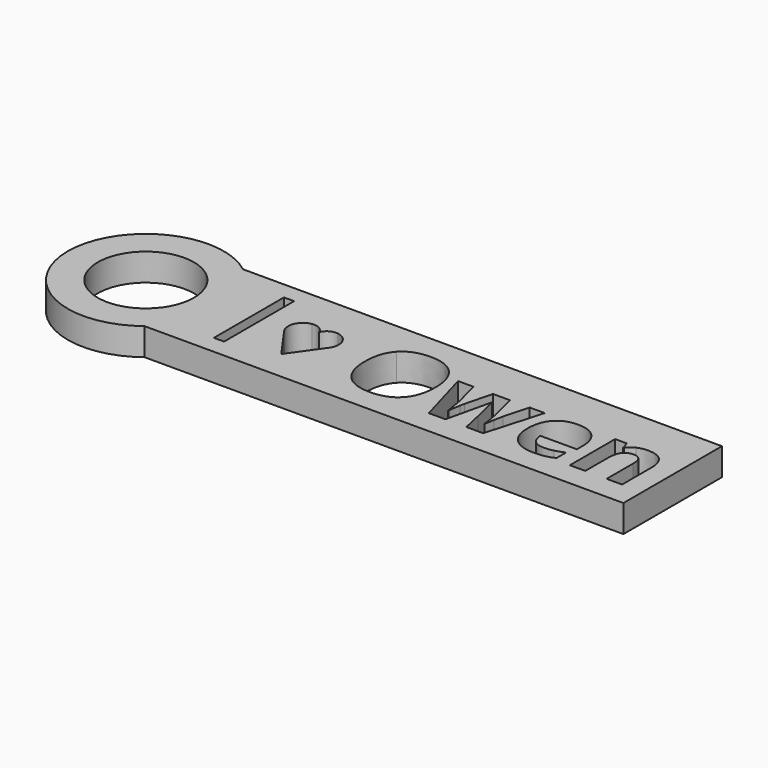
from build123d import *

# Parameters (mm, degrees)
F0_R     = 8.9291855446
F0_W     = 1.8887050901
F0_H     = 16.251400295
F1_DEPTH = 5.08


with BuildPart() as f1:
    # F0 (on Top) → F1 (new body)
    with BuildSketch(Plane.XY):
        with BuildLine():
            Line((44.45, -11.43), (44.45, 11.43))
            Line((44.45, 11.43), (-44.45, 11.43))
            ThreePointArc((-44.45, 11.43), (-67.8202265578, 0), (-44.45, -11.43))
            Line((-44.45, -11.43), (44.45, -11.43))
        make_face()
        with BuildLine():
            Line((-19.3083044142, 0), (-23.491198197, -5.8829421178))
            Line((-23.491198197, -5.8829421178), (-27.6740919799, 0))
            ThreePointArc((-27.6740919799, 0), (-27.9666728456, 2.6362555137), (-25.8814226836, 4.2755170725))
            ThreePointArc((-25.8814226836, 4.2755170725), (-24.4455751804, 4.0138821459), (-23.491198197, 2.9096740764))
            ThreePointArc((-23.491198197, 2.9096740764), (-22.5368212136, 4.0138821459), (-21.1009737104, 4.2755170725))
            ThreePointArc((-21.1009737104, 4.2755170725), (-19.0157235484, 2.6362555137), (-19.3083044142, 0))
        make_face(mode=Mode.SUBTRACT)
        with BuildLine():
            add(Edge.make_bspline(
                [(-1.1741983702, 5.1239690358), (0.5040073817, 3.2998977303), (0.5040073817, -0.1196720545)],
                knots=[0, 0, 0, 1, 1, 1], degree=2))
            add(Edge.make_bspline(
                [(0.5040073817, -0.1196720545), (0.5040073817, -3.5332267649), (-1.1877322875, -5.366320682)],
                knots=[0, 0, 0, 1, 1, 1], degree=2))
            add(Edge.make_bspline(
                [(-1.1877322875, -5.366320682), (-2.8794719568, -7.1994145992), (-6.037386006, -7.1994145992)],
                knots=[0, 0, 0, 1, 1, 1], degree=2))
            add(Edge.make_bspline(
                [(-6.037386006, -7.1994145992), (-9.1953000553, -7.1994145992), (-10.8870397245, -5.366320682)],
                knots=[0, 0, 0, 1, 1, 1], degree=2))
            add(Edge.make_bspline(
                [(-10.8870397245, -5.366320682), (-12.5787793938, -3.5332267649), (-12.5787793938, -0.1016268314)],
                knots=[0, 0, 0, 1, 1, 1], degree=2))
            add(Edge.make_bspline(
                [(-12.5787793938, -0.1016268314), (-12.5787793938, 3.3299731022), (-10.8825284187, 5.1390067218)],
                knots=[0, 0, 0, 1, 1, 1], degree=2))
            add(Edge.make_bspline(
                [(-10.8825284187, 5.1390067218), (-9.1862774437, 6.9480403414), (-6.0193407829, 6.9480403414)],
                knots=[0, 0, 0, 1, 1, 1], degree=2))
            add(Edge.make_bspline(
                [(-6.0193407829, 6.9480403414), (-2.8524041221, 6.9480403414), (-1.1741983702, 5.1239690358)],
                knots=[0, 0, 0, 1, 1, 1], degree=2))
        make_face(mode=Mode.SUBTRACT)
        with BuildLine():
            Line((14.883042686, -7.0099397562), (11.7642266202, -7.0099397562))
            Line((11.7642266202, -7.0099397562), (10.9551991161, -3.3347293104))
            Line((10.9551991161, -3.3347293104), (9.8664706534, 1.3089081106))
            Line((9.8664706534, 1.3089081106), (9.8003048353, 1.3089081106))
            Line((9.8003048353, 1.3089081106), (7.8814961082, -7.0099397562))
            Line((7.8814961082, -7.0099397562), (4.7987704887, -7.0099397562))
            Line((4.7987704887, -7.0099397562), (1.8122860592, 3.4983951848))
            Line((1.8122860592, 3.4983951848), (4.6694463895, 3.4983951848))
            Line((4.6694463895, 3.4983951848), (5.881483877, -1.1542648478))
            add(Edge.make_bspline(
                [(5.881483877, -1.1542648478), (6.1732149844, -2.4054003187), (6.4739687034, -4.6039100044)],
                knots=[0, 0, 0, 1, 1, 1], degree=2))
            Line((6.4739687034, -4.6039100044), (6.5281043728, -4.6039100044))
            add(Edge.make_bspline(
                [(6.5281043728, -4.6039100044), (6.5672023563, -3.8881161533), (6.8589334637, -2.3392345005)],
                knots=[0, 0, 0, 1, 1, 1], degree=2))
            Line((6.8589334637, -2.3392345005), (7.0093103232, -1.5392296081))
            Line((7.0093103232, -1.5392296081), (8.3055588519, 3.4983951848))
            Line((8.3055588519, 3.4983951848), (11.4634729012, 3.4983951848))
            Line((11.4634729012, 3.4983951848), (12.6935556118, -1.5392296081))
            add(Edge.make_bspline(
                [(12.6935556118, -1.5392296081), (12.7326535953, -1.7467496742), (12.8123533308, -2.1512634262)],
                knots=[0, 0, 0, 1, 1, 1], degree=2))
            add(Edge.make_bspline(
                [(12.8123533308, -2.1512634262), (12.8920530663, -2.5557771782), (12.9672414961, -3.0114190625)],
                knots=[0, 0, 0, 1, 1, 1], degree=2))
            add(Edge.make_bspline(
                [(12.9672414961, -3.0114190625), (13.0424299258, -3.4670609467), (13.1040844382, -3.9031538392)],
                knots=[0, 0, 0, 1, 1, 1], degree=2))
            add(Edge.make_bspline(
                [(13.1040844382, -3.9031538392), (13.1657389506, -4.3392467317), (13.1747615622, -4.6039100044)],
                knots=[0, 0, 0, 1, 1, 1], degree=2))
            Line((13.1747615622, -4.6039100044), (13.2288972316, -4.6039100044))
            add(Edge.make_bspline(
                [(13.2288972316, -4.6039100044), (13.3161158101, -3.9272141367), (13.5311547192, -2.7482595584)],
                knots=[0, 0, 0, 1, 1, 1], degree=2))
            add(Edge.make_bspline(
                [(13.5311547192, -2.7482595584), (13.7461936282, -1.56930498), (13.8424348183, -1.1542648478)],
                knots=[0, 0, 0, 1, 1, 1], degree=2))
            Line((13.8424348183, -1.1542648478), (15.0995853636, 3.4983951848))
            Line((15.0995853636, 3.4983951848), (17.911632636, 3.4983951848))
            Line((17.911632636, 3.4983951848), (14.883042686, -7.0099397562))
        make_face(mode=Mode.SUBTRACT)
        with BuildLine():
            add(Edge.make_bspline(
                [(26.4440156434, -7.0159548306), (25.5898750815, -7.1994145992), (24.3567848337, -7.1994145992)],
                knots=[0, 0, 0, 1, 1, 1], degree=2))
            add(Edge.make_bspline(
                [(24.3567848337, -7.1994145992), (21.8214309827, -7.1994145992), (20.3928508176, -5.7979022688)],
                knots=[0, 0, 0, 1, 1, 1], degree=2))
            add(Edge.make_bspline(
                [(20.3928508176, -5.7979022688), (18.9642706525, -4.3963899383), (18.9642706525, -1.8309607155)],
                knots=[0, 0, 0, 1, 1, 1], degree=2))
            add(Edge.make_bspline(
                [(18.9642706525, -1.8309607155), (18.9642706525, 0.8096569371), (20.2845794788, 2.2517710196)],
                knots=[0, 0, 0, 1, 1, 1], degree=2))
            add(Edge.make_bspline(
                [(20.2845794788, 2.2517710196), (21.6048883051, 3.6938851021), (23.9357296271, 3.6938851021)],
                knots=[0, 0, 0, 1, 1, 1], degree=2))
            add(Edge.make_bspline(
                [(23.9357296271, 3.6938851021), (26.1613071476, 3.6938851021), (27.4019162383, 2.4262081766)],
                knots=[0, 0, 0, 1, 1, 1], degree=2))
            add(Edge.make_bspline(
                [(27.4019162383, 2.4262081766), (28.6425253291, 1.1585312511), (28.6425253291, -1.079076418)],
                knots=[0, 0, 0, 1, 1, 1], degree=2))
            Line((28.6425253291, -1.079076418), (28.6425253291, -2.4715661369))
            Line((28.6425253291, -2.4715661369), (21.8665440406, -2.4715661369))
            add(Edge.make_bspline(
                [(21.8665440406, -2.4715661369), (21.9146646356, -3.6926262359), (22.5913605033, -4.3783447152)],
                knots=[0, 0, 0, 1, 1, 1], degree=2))
            add(Edge.make_bspline(
                [(22.5913605033, -4.3783447152), (23.268056371, -5.0640631945), (24.48911647, -5.0640631945)],
                knots=[0, 0, 0, 1, 1, 1], degree=2))
            add(Edge.make_bspline(
                [(24.48911647, -5.0640631945), (25.439498222, -5.0640631945), (26.2846161723, -4.8670695085)],
                knots=[0, 0, 0, 1, 1, 1], degree=2))
            add(Edge.make_bspline(
                [(26.2846161723, -4.8670695085), (27.1297341227, -4.6700758226), (28.0500405027, -4.2369904673)],
                knots=[0, 0, 0, 1, 1, 1], degree=2))
            Line((28.0500405027, -4.2369904673), (28.0500405027, -6.4565529133))
            add(Edge.make_bspline(
                [(28.0500405027, -6.4565529133), (27.2981562053, -6.832495062), (26.4440156434, -7.0159548306)],
                knots=[0, 0, 0, 1, 1, 1], degree=2))
        make_face(mode=Mode.SUBTRACT)
        with BuildLine():
            Line((40.6726740882, -0.158770038), (40.6726740882, -7.0099397562))
            Line((40.6726740882, -7.0099397562), (37.8064911463, -7.0099397562))
            Line((37.8064911463, -7.0099397562), (37.8064911463, -0.8715563519))
            add(Edge.make_bspline(
                [(37.8064911463, -0.8715563519), (37.8064911463, 0.2652927058), (37.4019773943, 0.8337172347)],
                knots=[0, 0, 0, 1, 1, 1], degree=2))
            add(Edge.make_bspline(
                [(37.4019773943, 0.8337172347), (36.9974636423, 1.4021417635), (36.1132477085, 1.4021417635)],
                knots=[0, 0, 0, 1, 1, 1], degree=2))
            add(Edge.make_bspline(
                [(36.1132477085, 1.4021417635), (34.9102328326, 1.4021417635), (34.3748912128, 0.5991293339)],
                knots=[0, 0, 0, 1, 1, 1], degree=2))
            add(Edge.make_bspline(
                [(34.3748912128, 0.5991293339), (33.839549593, -0.2038830958), (33.839549593, -2.0655486163)],
                knots=[0, 0, 0, 1, 1, 1], degree=2))
            Line((33.839549593, -2.0655486163), (33.839549593, -7.0099397562))
            Line((33.839549593, -7.0099397562), (30.9733666512, -7.0099397562))
            Line((30.9733666512, -7.0099397562), (30.9733666512, 3.4983951848))
            Line((30.9733666512, 3.4983951848), (33.1628537253, 3.4983951848))
            Line((33.1628537253, 3.4983951848), (33.5478184856, 2.154026061))
            Line((33.5478184856, 2.154026061), (33.7072179567, 2.154026061))
            add(Edge.make_bspline(
                [(33.7072179567, 2.154026061), (34.188423907, 2.91493297), (35.0290305516, 3.304409036)],
                knots=[0, 0, 0, 1, 1, 1], degree=2))
            add(Edge.make_bspline(
                [(35.0290305516, 3.304409036), (35.8696371961, 3.6938851021), (36.9403204357, 3.6938851021)],
                knots=[0, 0, 0, 1, 1, 1], degree=2))
            add(Edge.make_bspline(
                [(36.9403204357, 3.6938851021), (38.7749181214, 3.6938851021), (39.7237961048, 2.7029015981)],
                knots=[0, 0, 0, 1, 1, 1], degree=2))
            add(Edge.make_bspline(
                [(39.7237961048, 2.7029015981), (40.6726740882, 1.7119180941), (40.6726740882, -0.158770038)],
                knots=[0, 0, 0, 1, 1, 1], degree=2))
        make_face(mode=Mode.SUBTRACT)
        with Locations((-53.3399991691, 0)):
            Circle(F0_R, mode=Mode.SUBTRACT)
        with Locations((-33.3491009139, 0.1086286247)):
            Rectangle(F0_W, F0_H, mode=Mode.SUBTRACT)
    extrude(amount=F1_DEPTH)


solid = f1.part
